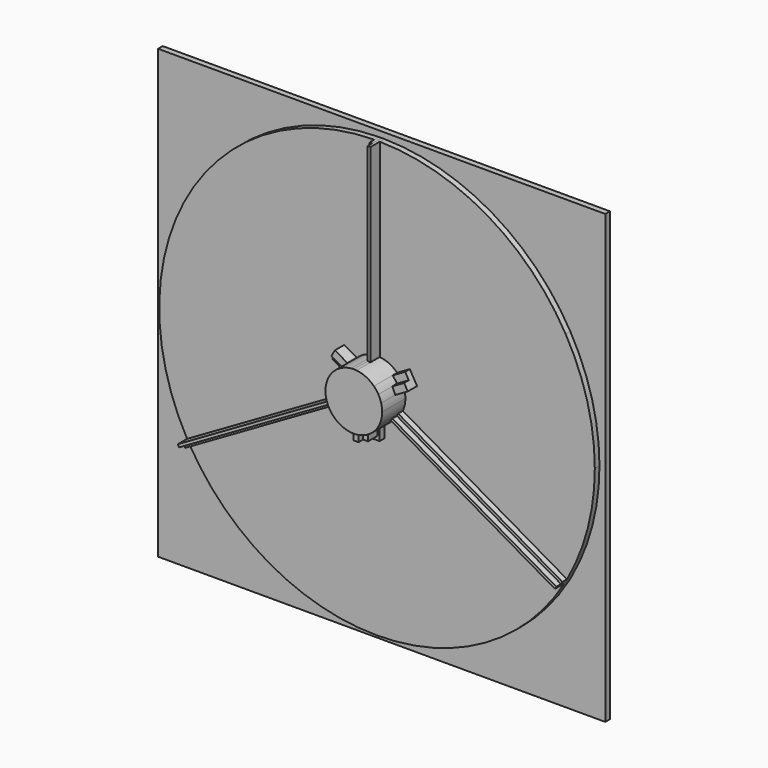
from build123d import *

# Parameters (mm, degrees)
F1_DEPTH = 2.54
F2_DEPTH = 2.54
F3_DEPTH = 5.08
F4_DEPTH = 7.62
F5_DEPTH = 12.7
F6_DEPTH = 10.16
F7_DEPTH = 15.24


with BuildPart() as f1:
    # F0 (on Front) → F1 (new body)
    with BuildSketch(Plane.XZ):
        Polygon((97.79, 97.79), (0, 97.79), (-97.79, 97.79), (-97.79, -97.79), (0, -97.79), (97.79, -97.79), align=None)
        with BuildLine():
            ThreePointArc((1.190625, 95.242558303), (48.1396355971, 82.1896464561), (82.4889197105, 47.625))
            ThreePointArc((82.4889197105, 47.625), (92.004434954, 24.652514046), (95.25, 0))
            ThreePointArc((95.25, 0), (92.156719127, -24.0769935778), (83.0777875119, -46.5901676551))
            ThreePointArc((83.0777875119, -46.5901676551), (82.7849705841, -47.1085039605), (82.4889197105, -47.625))
            ThreePointArc((82.4889197105, -47.625), (82.1896464561, -48.1396355971), (81.8871625119, -48.6523906479))
            ThreePointArc((81.8871625119, -48.6523906479), (47.1085039605, -82.7849705841), (0, -95.25))
            ThreePointArc((0, -95.25), (-47.1085039605, -82.7849705841), (-81.8871625119, -48.6523906479))
            ThreePointArc((-81.8871625119, -48.6523906479), (-82.1896464561, -48.1396355971), (-82.4889197105, -47.625))
            ThreePointArc((-82.4889197105, -47.625), (-82.7849705841, -47.1085039605), (-83.0777875119, -46.5901676551))
            ThreePointArc((-83.0777875119, -46.5901676551), (-95.2481395576, 0.595324128), (-82.4889197105, 47.625))
            ThreePointArc((-82.4889197105, 47.625), (-48.1396355971, 82.1896464561), (-1.190625, 95.242558303))
            ThreePointArc((-1.190625, 95.242558303), (-0.595324128, 95.2481395576), (0, 95.25))
            ThreePointArc((0, 95.25), (0.595324128, 95.2481395576), (1.190625, 95.242558303))
        make_face(mode=Mode.SUBTRACT)
        with BuildLine():
            Line((14.3383607654, 11.944430657), (15.9258607654, 9.1948))
            Line((15.9258607654, 9.1948), (82.4889197105, 47.625))
            ThreePointArc((82.4889197105, 47.625), (48.1396355971, 82.1896464561), (1.190625, 95.242558303))
            Line((1.190625, 95.242558303), (1.190625, 12.3378845492))
            ThreePointArc((1.190625, 12.3378845492), (5.3040767235, 11.2030242859), (8.7889285055, 8.7404644479))
            Line((8.7889285055, 8.7404644479), (9.147058085, 8.947230657))
            Line((9.147058085, 8.947230657), (14.3383607654, 11.944430657))
        make_face()
        with BuildLine():
            ThreePointArc((-8.7889285055, 8.7404644479), (-5.3040767235, 11.2030242859), (-1.190625, 12.3378845492))
            Line((-1.190625, 12.3378845492), (-1.190625, 95.242558303))
            ThreePointArc((-1.190625, 95.242558303), (-48.1396355971, 82.1896464561), (-82.4889197105, 47.625))
            Line((-82.4889197105, 47.625), (-15.9258607654, 9.1948))
            Line((-15.9258607654, 9.1948), (-14.3383607654, 11.944430657))
            Line((-14.3383607654, 11.944430657), (-9.147058085, 8.947230657))
            Line((-9.147058085, 8.947230657), (-8.7889285055, 8.7404644479))
        make_face()
        with BuildLine():
            Line((81.8871625119, -48.6523906479), (10.0896089486, -7.200053771))
            ThreePointArc((10.0896089486, -7.200053771), (7.0500652691, -10.1949773291), (3.175, -11.9816675818))
            Line((3.175, -11.9816675818), (3.175, -12.3952))
            Line((3.175, -12.3952), (3.175, -18.3896))
            Line((3.175, -18.3896), (0, -18.3896))
            Line((0, -18.3896), (0, -95.25))
            ThreePointArc((0, -95.25), (47.1085039605, -82.7849705841), (81.8871625119, -48.6523906479))
        make_face()
        with BuildLine():
            Line((-17.5133607654, 6.445169343), (-15.9258607654, 9.1948))
            Line((-15.9258607654, 9.1948), (-82.4889197105, 47.625))
            ThreePointArc((-82.4889197105, 47.625), (-95.2481395576, 0.595324128), (-83.0777875119, -46.5901676551))
            Line((-83.0777875119, -46.5901676551), (-11.2802339486, -5.1378307782))
            ThreePointArc((-11.2802339486, -5.1378307782), (-12.3541419926, -1.0080469568), (-11.9639285055, 3.2412031339))
            Line((-11.9639285055, 3.2412031339), (-12.322058085, 3.447969343))
            Line((-12.322058085, 3.447969343), (-17.5133607654, 6.445169343))
        make_face()
        with BuildLine():
            Line((82.4889197105, 47.625), (15.9258607654, 9.1948))
            Line((15.9258607654, 9.1948), (17.5133607654, 6.445169343))
            Line((17.5133607654, 6.445169343), (12.322058085, 3.447969343))
            Line((12.322058085, 3.447969343), (11.9639285055, 3.2412031339))
            ThreePointArc((11.9639285055, 3.2412031339), (12.2869090835, 1.6348847709), (12.3952, 0))
            ThreePointArc((12.3952, 0), (12.1132518111, -2.6287094933), (11.2802339486, -5.1378307782))
            Line((11.2802339486, -5.1378307782), (83.0777875119, -46.5901676551))
            ThreePointArc((83.0777875119, -46.5901676551), (92.156719127, -24.0769935778), (95.25, 0))
            ThreePointArc((95.25, 0), (92.004434954, 24.652514046), (82.4889197105, 47.625))
        make_face()
        with BuildLine():
            ThreePointArc((-3.175, -11.9816675818), (-7.0500652691, -10.1949773291), (-10.0896089486, -7.200053771))
            Line((-10.0896089486, -7.200053771), (-81.8871625119, -48.6523906479))
            ThreePointArc((-81.8871625119, -48.6523906479), (-47.1085039605, -82.7849705841), (0, -95.25))
            Line((0, -95.25), (0, -18.3896))
            Line((0, -18.3896), (-3.175, -18.3896))
            Line((-3.175, -18.3896), (-3.175, -12.3952))
            Line((-3.175, -12.3952), (-3.175, -11.9816675818))
        make_face()
        with BuildLine():
            ThreePointArc((0, 12.3952), (0.5960018774, 12.3808628456), (1.190625, 12.3378845492))
            Line((1.190625, 12.3378845492), (1.190625, 95.242558303))
            ThreePointArc((1.190625, 95.242558303), (0.595324128, 95.2481395576), (0, 95.25))
            Line((0, 95.25), (0, 12.3952))
        make_face()
        with BuildLine():
            Line((82.4889197105, -47.625), (10.734558085, -6.1976))
            ThreePointArc((10.734558085, -6.1976), (10.4241408064, -6.7065841894), (10.0896089486, -7.200053771))
            Line((10.0896089486, -7.200053771), (81.8871625119, -48.6523906479))
            ThreePointArc((81.8871625119, -48.6523906479), (82.1896464561, -48.1396355971), (82.4889197105, -47.625))
        make_face()
        with BuildLine():
            ThreePointArc((-10.0896089486, -7.200053771), (-10.4241408064, -6.7065841894), (-10.734558085, -6.1976))
            Line((-10.734558085, -6.1976), (-82.4889197105, -47.625))
            ThreePointArc((-82.4889197105, -47.625), (-82.1896464561, -48.1396355971), (-81.8871625119, -48.6523906479))
            Line((-81.8871625119, -48.6523906479), (-10.0896089486, -7.200053771))
        make_face()
        with BuildLine():
            ThreePointArc((-1.190625, 12.3378845492), (-0.5960018774, 12.3808628456), (0, 12.3952))
            Line((0, 12.3952), (0, 95.25))
            ThreePointArc((0, 95.25), (-0.595324128, 95.2481395576), (-1.190625, 95.242558303))
            Line((-1.190625, 95.242558303), (-1.190625, 12.3378845492))
        make_face()
        with BuildLine():
            ThreePointArc((-10.734558085, -6.1976), (-11.0201426838, -5.6742786563), (-11.2802339486, -5.1378307782))
            Line((-11.2802339486, -5.1378307782), (-83.0777875119, -46.5901676551))
            ThreePointArc((-83.0777875119, -46.5901676551), (-82.7849705841, -47.1085039605), (-82.4889197105, -47.625))
            Line((-82.4889197105, -47.625), (-10.734558085, -6.1976))
        make_face()
        with BuildLine():
            Line((83.0777875119, -46.5901676551), (11.2802339486, -5.1378307782))
            ThreePointArc((11.2802339486, -5.1378307782), (11.0201426838, -5.6742786563), (10.734558085, -6.1976))
            Line((10.734558085, -6.1976), (82.4889197105, -47.625))
            ThreePointArc((82.4889197105, -47.625), (82.7849705841, -47.1085039605), (83.0777875119, -46.5901676551))
        make_face()
        with BuildLine():
            Line((1.190625, 12.3378845492), (1.190625, 4.3535818736))
            Line((1.190625, 4.3535818736), (8.7889285055, 8.7404644479))
            ThreePointArc((8.7889285055, 8.7404644479), (5.3040767235, 11.2030242859), (1.190625, 12.3378845492))
        make_face()
        with BuildLine():
            Line((-8.7889285055, 8.7404644479), (-1.190625, 4.3535818736))
            Line((-1.190625, 4.3535818736), (-1.190625, 12.3378845492))
            ThreePointArc((-1.190625, 12.3378845492), (-5.3040767235, 11.2030242859), (-8.7889285055, 8.7404644479))
        make_face()
        with BuildLine():
            Line((-3.175, -11.9816675818), (-3.175, -3.2079024332))
            Line((-3.175, -3.2079024332), (-10.0896089486, -7.200053771))
            ThreePointArc((-10.0896089486, -7.200053771), (-7.0500652691, -10.1949773291), (-3.175, -11.9816675818))
        make_face()
        with BuildLine():
            Line((10.0896089486, -7.200053771), (3.175, -3.2079024332))
            Line((3.175, -3.2079024332), (3.175, -11.9816675818))
            ThreePointArc((3.175, -11.9816675818), (7.0500652691, -10.1949773291), (10.0896089486, -7.200053771))
        make_face()
        with BuildLine():
            Line((-4.365625, -1.1456794404), (-11.9639285055, 3.2412031339))
            ThreePointArc((-11.9639285055, 3.2412031339), (-12.3541419926, -1.0080469568), (-11.2802339486, -5.1378307782))
            Line((-11.2802339486, -5.1378307782), (-4.365625, -1.1456794404))
        make_face()
        with BuildLine():
            ThreePointArc((12.3952, 0), (12.2869090835, 1.6348847709), (11.9639285055, 3.2412031339))
            Line((11.9639285055, 3.2412031339), (4.365625, -1.1456794404))
            Line((4.365625, -1.1456794404), (11.2802339486, -5.1378307782))
            ThreePointArc((11.2802339486, -5.1378307782), (12.1132518111, -2.6287094933), (12.3952, 0))
        make_face()
        with BuildLine():
            Line((-10.734558085, 6.1976), (-1.190625, 0.6874076643))
            Line((-1.190625, 0.6874076643), (-1.190625, 2.9787665451))
            Line((-1.190625, 2.9787665451), (-1.190625, 4.3535818736))
            Line((-1.190625, 4.3535818736), (-8.7889285055, 8.7404644479))
            ThreePointArc((-8.7889285055, 8.7404644479), (-9.8441948407, 7.5321186248), (-10.734558085, 6.1976))
        make_face()
        with BuildLine():
            Line((1.190625, 2.9787665451), (1.190625, 0.6874076643))
            Line((1.190625, 0.6874076643), (10.734558085, 6.1976))
            ThreePointArc((10.734558085, 6.1976), (9.8441948407, 7.5321186248), (8.7889285055, 8.7404644479))
            Line((8.7889285055, 8.7404644479), (1.190625, 4.3535818736))
            Line((1.190625, 4.3535818736), (1.190625, 2.9787665451))
        make_face()
        with BuildLine():
            Line((-2.8194, -0.2529660204), (-1.190625, 0.6874076643))
            Line((-1.190625, 0.6874076643), (-10.734558085, 6.1976))
            ThreePointArc((-10.734558085, 6.1976), (-11.4451034937, 4.7592634995), (-11.9639285055, 3.2412031339))
            Line((-11.9639285055, 3.2412031339), (-4.365625, -1.1456794404))
            Line((-4.365625, -1.1456794404), (-3.175, -0.4582717762))
            Line((-3.175, -0.4582717762), (-2.8194, -0.2529660204))
        make_face()
        with BuildLine():
            Line((10.734558085, 6.1976), (1.190625, 0.6874076643))
            Line((1.190625, 0.6874076643), (2.8194, -0.2529660204))
            Line((2.8194, -0.2529660204), (2.8194, 0))
            Line((2.8194, 0), (3.175, 0))
            Line((3.175, 0), (3.175, -0.4582717762))
            Line((3.175, -0.4582717762), (4.365625, -1.1456794404))
            Line((4.365625, -1.1456794404), (11.9639285055, 3.2412031339))
            ThreePointArc((11.9639285055, 3.2412031339), (11.4451034937, 4.7592634995), (10.734558085, 6.1976))
        make_face()
        with BuildLine():
            Line((0, -12.3952), (0, -1.3748153285))
            Line((0, -1.3748153285), (-1.984375, -2.5204947689))
            Line((-1.984375, -2.5204947689), (-2.1717, -2.6286469081))
            Line((-2.1717, -2.6286469081), (-2.1717, -12.2034709059))
            ThreePointArc((-2.1717, -12.2034709059), (-1.0900734993, -12.3471746892), (0, -12.3952))
        make_face()
        with BuildLine():
            Line((1.984375, -2.5204947689), (0, -1.3748153285))
            Line((0, -1.3748153285), (0, -12.3952))
            ThreePointArc((0, -12.3952), (1.0900734993, -12.3471746892), (2.1717, -12.2034709059))
            Line((2.1717, -12.2034709059), (2.1717, -2.6286469081))
            Line((2.1717, -2.6286469081), (1.984375, -2.5204947689))
        make_face()
        with BuildLine():
            ThreePointArc((8.7889285055, 8.7404644479), (9.8441948407, 7.5321186248), (10.734558085, 6.1976))
            Line((10.734558085, 6.1976), (15.9258607654, 9.1948))
            Line((15.9258607654, 9.1948), (14.3383607654, 11.944430657))
            Line((14.3383607654, 11.944430657), (9.147058085, 8.947230657))
            Line((9.147058085, 8.947230657), (8.7889285055, 8.7404644479))
        make_face()
        with BuildLine():
            Line((-15.9258607654, 9.1948), (-10.734558085, 6.1976))
            ThreePointArc((-10.734558085, 6.1976), (-9.8441948407, 7.5321186248), (-8.7889285055, 8.7404644479))
            Line((-8.7889285055, 8.7404644479), (-9.147058085, 8.947230657))
            Line((-9.147058085, 8.947230657), (-14.3383607654, 11.944430657))
            Line((-14.3383607654, 11.944430657), (-15.9258607654, 9.1948))
        make_face()
        with BuildLine():
            ThreePointArc((-11.9639285055, 3.2412031339), (-11.4451034937, 4.7592634995), (-10.734558085, 6.1976))
            Line((-10.734558085, 6.1976), (-15.9258607654, 9.1948))
            Line((-15.9258607654, 9.1948), (-17.5133607654, 6.445169343))
            Line((-17.5133607654, 6.445169343), (-12.322058085, 3.447969343))
            Line((-12.322058085, 3.447969343), (-11.9639285055, 3.2412031339))
        make_face()
        with BuildLine():
            Line((15.9258607654, 9.1948), (10.734558085, 6.1976))
            ThreePointArc((10.734558085, 6.1976), (11.4451034937, 4.7592634995), (11.9639285055, 3.2412031339))
            Line((11.9639285055, 3.2412031339), (12.322058085, 3.447969343))
            Line((12.322058085, 3.447969343), (17.5133607654, 6.445169343))
            Line((17.5133607654, 6.445169343), (15.9258607654, 9.1948))
        make_face()
        with BuildLine():
            Line((0, 3.6661742094), (1.190625, 4.3535818736))
            Line((1.190625, 4.3535818736), (1.190625, 12.3378845492))
            ThreePointArc((1.190625, 12.3378845492), (0.5960018774, 12.3808628456), (0, 12.3952))
            Line((0, 12.3952), (0, 3.6661742094))
        make_face()
        with BuildLine():
            Line((-1.190625, 4.3535818736), (0, 3.6661742094))
            Line((0, 3.6661742094), (0, 12.3952))
            ThreePointArc((0, 12.3952), (-0.5960018774, 12.3808628456), (-1.190625, 12.3378845492))
            Line((-1.190625, 12.3378845492), (-1.190625, 4.3535818736))
        make_face()
        with BuildLine():
            Line((11.2802339486, -5.1378307782), (4.365625, -1.1456794404))
            Line((4.365625, -1.1456794404), (3.175, -1.8330871047))
            Line((3.175, -1.8330871047), (10.734558085, -6.1976))
            ThreePointArc((10.734558085, -6.1976), (11.0201426838, -5.6742786563), (11.2802339486, -5.1378307782))
        make_face()
        with BuildLine():
            Line((10.734558085, -6.1976), (3.175, -1.8330871047))
            Line((3.175, -1.8330871047), (3.175, -3.2079024332))
            Line((3.175, -3.2079024332), (10.0896089486, -7.200053771))
            ThreePointArc((10.0896089486, -7.200053771), (10.4241408064, -6.7065841894), (10.734558085, -6.1976))
        make_face()
        with BuildLine():
            Line((-10.734558085, -6.1976), (-3.175, -1.8330871047))
            Line((-3.175, -1.8330871047), (-4.365625, -1.1456794404))
            Line((-4.365625, -1.1456794404), (-11.2802339486, -5.1378307782))
            ThreePointArc((-11.2802339486, -5.1378307782), (-11.0201426838, -5.6742786563), (-10.734558085, -6.1976))
        make_face()
        with BuildLine():
            Line((-3.175, -3.2079024332), (-3.175, -1.8330871047))
            Line((-3.175, -1.8330871047), (-10.734558085, -6.1976))
            ThreePointArc((-10.734558085, -6.1976), (-10.4241408064, -6.7065841894), (-10.0896089486, -7.200053771))
            Line((-10.0896089486, -7.200053771), (-3.175, -3.2079024332))
        make_face()
        with BuildLine():
            ThreePointArc((2.1717, -12.2034709059), (1.0900734993, -12.3471746892), (0, -12.3952))
            Line((0, -12.3952), (0, -16.7386))
            Line((0, -16.7386), (2.1717, -16.7386))
            Line((2.1717, -16.7386), (2.1717, -14.5669))
            Line((2.1717, -14.5669), (2.1717, -12.2034709059))
        make_face()
        with BuildLine():
            Line((0, -16.7386), (0, -12.3952))
            ThreePointArc((0, -12.3952), (-1.0900734993, -12.3471746892), (-2.1717, -12.2034709059))
            Line((-2.1717, -12.2034709059), (-2.1717, -14.5669))
            Line((-2.1717, -14.5669), (-2.1717, -16.7386))
            Line((-2.1717, -16.7386), (0, -16.7386))
        make_face()
        with BuildLine():
            Line((2.1717, -16.7386), (0, -16.7386))
            Line((0, -16.7386), (0, -18.034))
            Line((0, -18.034), (2.8194, -18.034))
            Line((2.8194, -18.034), (2.8194, -15.2146))
            Line((2.8194, -15.2146), (2.8194, -12.0702927338))
            ThreePointArc((2.8194, -12.0702927338), (2.4964382446, -12.1412017169), (2.1717, -12.2034709059))
            Line((2.1717, -12.2034709059), (2.1717, -14.5669))
            Line((2.1717, -14.5669), (2.1717, -16.7386))
        make_face()
        with BuildLine():
            Line((0, -18.034), (0, -16.7386))
            Line((0, -16.7386), (-2.1717, -16.7386))
            Line((-2.1717, -16.7386), (-2.1717, -14.5669))
            Line((-2.1717, -14.5669), (-2.1717, -12.2034709059))
            ThreePointArc((-2.1717, -12.2034709059), (-2.4964382446, -12.1412017169), (-2.8194, -12.0702927338))
            Line((-2.8194, -12.0702927338), (-2.8194, -15.2146))
            Line((-2.8194, -15.2146), (-2.8194, -18.034))
            Line((-2.8194, -18.034), (0, -18.034))
        make_face()
        with BuildLine():
            Line((-2.1717, -12.2034709059), (-2.1717, -2.6286469081))
            Line((-2.1717, -2.6286469081), (-2.8194, -3.0025966775))
            Line((-2.8194, -3.0025966775), (-2.8194, -12.0702927338))
            ThreePointArc((-2.8194, -12.0702927338), (-2.4964382446, -12.1412017169), (-2.1717, -12.2034709059))
        make_face()
        with BuildLine():
            Line((2.8194, -3.0025966775), (2.1717, -2.6286469081))
            Line((2.1717, -2.6286469081), (2.1717, -12.2034709059))
            ThreePointArc((2.1717, -12.2034709059), (2.4964382446, -12.1412017169), (2.8194, -12.0702927338))
            Line((2.8194, -12.0702927338), (2.8194, -3.0025966775))
        make_face()
        Polygon((0, 0), (1.190625, 0.6874076643), (1.190625, 2.9787665451), (0, 3.6661742094), align=None)
        Polygon((-1.190625, 0.6874076643), (0, 0), (0, 3.6661742094), (-1.190625, 2.9787665451), align=None)
        with BuildLine():
            Line((2.8194, -18.034), (0, -18.034))
            Line((0, -18.034), (0, -18.3896))
            Line((0, -18.3896), (3.175, -18.3896))
            Line((3.175, -18.3896), (3.175, -12.3952))
            Line((3.175, -12.3952), (3.175, -11.9816675818))
            ThreePointArc((3.175, -11.9816675818), (2.9975275552, -12.027294442), (2.8194, -12.0702927338))
            Line((2.8194, -12.0702927338), (2.8194, -15.2146))
            Line((2.8194, -15.2146), (2.8194, -18.034))
        make_face()
        with BuildLine():
            Line((0, -18.3896), (0, -18.034))
            Line((0, -18.034), (-2.8194, -18.034))
            Line((-2.8194, -18.034), (-2.8194, -15.2146))
            Line((-2.8194, -15.2146), (-2.8194, -12.0702927338))
            ThreePointArc((-2.8194, -12.0702927338), (-2.9975275552, -12.027294442), (-3.175, -11.9816675818))
            Line((-3.175, -11.9816675818), (-3.175, -12.3952))
            Line((-3.175, -12.3952), (-3.175, -18.3896))
            Line((-3.175, -18.3896), (0, -18.3896))
        make_face()
        with BuildLine():
            Line((3.175, -11.9816675818), (3.175, -3.2079024332))
            Line((3.175, -3.2079024332), (2.8194, -3.0025966775))
            Line((2.8194, -3.0025966775), (2.8194, -12.0702927338))
            ThreePointArc((2.8194, -12.0702927338), (2.9975275552, -12.027294442), (3.175, -11.9816675818))
        make_face()
        with BuildLine():
            Line((-2.8194, -3.0025966775), (-3.175, -3.2079024332))
            Line((-3.175, -3.2079024332), (-3.175, -11.9816675818))
            ThreePointArc((-3.175, -11.9816675818), (-2.9975275552, -12.027294442), (-2.8194, -12.0702927338))
            Line((-2.8194, -12.0702927338), (-2.8194, -3.0025966775))
        make_face()
        Polygon((2.8194, -0.2529660204), (1.190625, 0.6874076643), (0, 0), (2.1717, -1.2538315796), (2.8194, -1.627781349), align=None)
        Polygon((-2.1717, -1.2538315796), (0, 0), (-1.190625, 0.6874076643), (-2.8194, -0.2529660204), (-2.8194, -1.627781349), align=None)
        Polygon((0, -1.3748153285), (0, 0), (-2.1717, -1.2538315796), (-2.1717, -2.4123426298), (-1.984375, -2.5204947689), align=None)
        Polygon((2.1717, -1.2538315796), (0, 0), (0, -1.3748153285), (1.984375, -2.5204947689), (2.1717, -2.4123426298), align=None)
        Polygon((0, 3.6661742094), (1.190625, 2.9787665451), (1.190625, 4.3535818736), align=None)
        Polygon((-1.190625, 2.9787665451), (0, 3.6661742094), (-1.190625, 4.3535818736), align=None)
        Polygon((-3.175, -1.8330871047), (-3.175, -0.4582717762), (-4.365625, -1.1456794404), align=None)
        Polygon((4.365625, -1.1456794404), (3.175, -0.4582717762), (3.175, -1.8330871047), align=None)
        Polygon((2.8194, -1.627781349), (2.1717, -1.2538315796), (2.1717, -2.4123426298), (2.8194, -2.0383928604), align=None)
        Polygon((-2.1717, -2.4123426298), (-2.1717, -1.2538315796), (-2.8194, -1.627781349), (-2.8194, -2.0383928604), align=None)
        Polygon((3.175, -0.4582717762), (2.8194, -0.2529660204), (2.8194, -1.627781349), (3.175, -1.8330871047), align=None)
        Polygon((-2.8194, -1.627781349), (-2.8194, -0.2529660204), (-3.175, -0.4582717762), (-3.175, -1.8330871047), align=None)
        Polygon((3.175, -3.2079024332), (3.175, -1.8330871047), (2.8194, -2.0383928604), (2.8194, -3.0025966775), align=None)
        Polygon((-2.8194, -2.0383928604), (-3.175, -1.8330871047), (-3.175, -3.2079024332), (-2.8194, -3.0025966775), align=None)
        Polygon((2.8194, -2.0383928604), (2.1717, -2.4123426298), (2.1717, -2.6286469081), (2.8194, -3.0025966775), align=None)
        Polygon((-2.1717, -2.6286469081), (-2.1717, -2.4123426298), (-2.8194, -2.0383928604), (-2.8194, -3.0025966775), align=None)
        Polygon((2.8194, 0), (2.8194, -0.2529660204), (3.175, -0.4582717762), (3.175, 0), align=None)
        Polygon((-2.8194, -2.0383928604), (-2.8194, -1.627781349), (-3.175, -1.8330871047), align=None)
        Polygon((3.175, -1.8330871047), (2.8194, -1.627781349), (2.8194, -2.0383928604), align=None)
        Polygon((-1.984375, -2.5204947689), (-2.1717, -2.4123426298), (-2.1717, -2.6286469081), align=None)
        Polygon((2.1717, -2.4123426298), (1.984375, -2.5204947689), (2.1717, -2.6286469081), align=None)
    extrude(amount=-F1_DEPTH)

    # F0 (on Front) → F2 (join)
    with BuildSketch(Plane.XZ):
        with BuildLine():
            ThreePointArc((-8.7889285055, 8.7404644479), (-5.3040767235, 11.2030242859), (-1.190625, 12.3378845492))
            Line((-1.190625, 12.3378845492), (-1.190625, 95.242558303))
            ThreePointArc((-1.190625, 95.242558303), (-48.1396355971, 82.1896464561), (-82.4889197105, 47.625))
            Line((-82.4889197105, 47.625), (-15.9258607654, 9.1948))
            Line((-15.9258607654, 9.1948), (-14.3383607654, 11.944430657))
            Line((-14.3383607654, 11.944430657), (-9.147058085, 8.947230657))
            Line((-9.147058085, 8.947230657), (-8.7889285055, 8.7404644479))
        make_face()
        with BuildLine():
            Line((-17.5133607654, 6.445169343), (-15.9258607654, 9.1948))
            Line((-15.9258607654, 9.1948), (-82.4889197105, 47.625))
            ThreePointArc((-82.4889197105, 47.625), (-95.2481395576, 0.595324128), (-83.0777875119, -46.5901676551))
            Line((-83.0777875119, -46.5901676551), (-11.2802339486, -5.1378307782))
            ThreePointArc((-11.2802339486, -5.1378307782), (-12.3541419926, -1.0080469568), (-11.9639285055, 3.2412031339))
            Line((-11.9639285055, 3.2412031339), (-12.322058085, 3.447969343))
            Line((-12.322058085, 3.447969343), (-17.5133607654, 6.445169343))
        make_face()
        with BuildLine():
            ThreePointArc((-3.175, -11.9816675818), (-7.0500652691, -10.1949773291), (-10.0896089486, -7.200053771))
            Line((-10.0896089486, -7.200053771), (-81.8871625119, -48.6523906479))
            ThreePointArc((-81.8871625119, -48.6523906479), (-47.1085039605, -82.7849705841), (0, -95.25))
            Line((0, -95.25), (0, -18.3896))
            Line((0, -18.3896), (-3.175, -18.3896))
            Line((-3.175, -18.3896), (-3.175, -12.3952))
            Line((-3.175, -12.3952), (-3.175, -11.9816675818))
        make_face()
        with BuildLine():
            Line((81.8871625119, -48.6523906479), (10.0896089486, -7.200053771))
            ThreePointArc((10.0896089486, -7.200053771), (7.0500652691, -10.1949773291), (3.175, -11.9816675818))
            Line((3.175, -11.9816675818), (3.175, -12.3952))
            Line((3.175, -12.3952), (3.175, -18.3896))
            Line((3.175, -18.3896), (0, -18.3896))
            Line((0, -18.3896), (0, -95.25))
            ThreePointArc((0, -95.25), (47.1085039605, -82.7849705841), (81.8871625119, -48.6523906479))
        make_face()
        with BuildLine():
            Line((82.4889197105, 47.625), (15.9258607654, 9.1948))
            Line((15.9258607654, 9.1948), (17.5133607654, 6.445169343))
            Line((17.5133607654, 6.445169343), (12.322058085, 3.447969343))
            Line((12.322058085, 3.447969343), (11.9639285055, 3.2412031339))
            ThreePointArc((11.9639285055, 3.2412031339), (12.2869090835, 1.6348847709), (12.3952, 0))
            ThreePointArc((12.3952, 0), (12.1132518111, -2.6287094933), (11.2802339486, -5.1378307782))
            Line((11.2802339486, -5.1378307782), (83.0777875119, -46.5901676551))
            ThreePointArc((83.0777875119, -46.5901676551), (92.156719127, -24.0769935778), (95.25, 0))
            ThreePointArc((95.25, 0), (92.004434954, 24.652514046), (82.4889197105, 47.625))
        make_face()
        with BuildLine():
            Line((14.3383607654, 11.944430657), (15.9258607654, 9.1948))
            Line((15.9258607654, 9.1948), (82.4889197105, 47.625))
            ThreePointArc((82.4889197105, 47.625), (48.1396355971, 82.1896464561), (1.190625, 95.242558303))
            Line((1.190625, 95.242558303), (1.190625, 12.3378845492))
            ThreePointArc((1.190625, 12.3378845492), (5.3040767235, 11.2030242859), (8.7889285055, 8.7404644479))
            Line((8.7889285055, 8.7404644479), (9.147058085, 8.947230657))
            Line((9.147058085, 8.947230657), (14.3383607654, 11.944430657))
        make_face()
    extrude(amount=F2_DEPTH)

    # F0 (on Front) → F3 (join)
    with BuildSketch(Plane.XZ):
        with BuildLine():
            ThreePointArc((-11.9639285055, 3.2412031339), (-11.4451034937, 4.7592634995), (-10.734558085, 6.1976))
            Line((-10.734558085, 6.1976), (-15.9258607654, 9.1948))
            Line((-15.9258607654, 9.1948), (-17.5133607654, 6.445169343))
            Line((-17.5133607654, 6.445169343), (-12.322058085, 3.447969343))
            Line((-12.322058085, 3.447969343), (-11.9639285055, 3.2412031339))
        make_face()
        with BuildLine():
            ThreePointArc((-10.0896089486, -7.200053771), (-10.4241408064, -6.7065841894), (-10.734558085, -6.1976))
            Line((-10.734558085, -6.1976), (-82.4889197105, -47.625))
            ThreePointArc((-82.4889197105, -47.625), (-82.1896464561, -48.1396355971), (-81.8871625119, -48.6523906479))
            Line((-81.8871625119, -48.6523906479), (-10.0896089486, -7.200053771))
        make_face()
        with BuildLine():
            Line((2.1717, -16.7386), (0, -16.7386))
            Line((0, -16.7386), (0, -18.034))
            Line((0, -18.034), (2.8194, -18.034))
            Line((2.8194, -18.034), (2.8194, -15.2146))
            Line((2.8194, -15.2146), (2.8194, -12.0702927338))
            ThreePointArc((2.8194, -12.0702927338), (2.4964382446, -12.1412017169), (2.1717, -12.2034709059))
            Line((2.1717, -12.2034709059), (2.1717, -14.5669))
            Line((2.1717, -14.5669), (2.1717, -16.7386))
        make_face()
        with BuildLine():
            Line((2.8194, -18.034), (0, -18.034))
            Line((0, -18.034), (0, -18.3896))
            Line((0, -18.3896), (3.175, -18.3896))
            Line((3.175, -18.3896), (3.175, -12.3952))
            Line((3.175, -12.3952), (3.175, -11.9816675818))
            ThreePointArc((3.175, -11.9816675818), (2.9975275552, -12.027294442), (2.8194, -12.0702927338))
            Line((2.8194, -12.0702927338), (2.8194, -15.2146))
            Line((2.8194, -15.2146), (2.8194, -18.034))
        make_face()
        with BuildLine():
            Line((83.0777875119, -46.5901676551), (11.2802339486, -5.1378307782))
            ThreePointArc((11.2802339486, -5.1378307782), (11.0201426838, -5.6742786563), (10.734558085, -6.1976))
            Line((10.734558085, -6.1976), (82.4889197105, -47.625))
            ThreePointArc((82.4889197105, -47.625), (82.7849705841, -47.1085039605), (83.0777875119, -46.5901676551))
        make_face()
        with BuildLine():
            ThreePointArc((8.7889285055, 8.7404644479), (9.8441948407, 7.5321186248), (10.734558085, 6.1976))
            Line((10.734558085, 6.1976), (15.9258607654, 9.1948))
            Line((15.9258607654, 9.1948), (14.3383607654, 11.944430657))
            Line((14.3383607654, 11.944430657), (9.147058085, 8.947230657))
            Line((9.147058085, 8.947230657), (8.7889285055, 8.7404644479))
        make_face()
        with BuildLine():
            ThreePointArc((-1.190625, 12.3378845492), (-0.5960018774, 12.3808628456), (0, 12.3952))
            Line((0, 12.3952), (0, 95.25))
            ThreePointArc((0, 95.25), (-0.595324128, 95.2481395576), (-1.190625, 95.242558303))
            Line((-1.190625, 95.242558303), (-1.190625, 12.3378845492))
        make_face()
    extrude(amount=F3_DEPTH)

    # F0 (on Front) → F4 (join)
    with BuildSketch(Plane.XZ):
        with BuildLine():
            Line((-15.9258607654, 9.1948), (-10.734558085, 6.1976))
            ThreePointArc((-10.734558085, 6.1976), (-9.8441948407, 7.5321186248), (-8.7889285055, 8.7404644479))
            Line((-8.7889285055, 8.7404644479), (-9.147058085, 8.947230657))
            Line((-9.147058085, 8.947230657), (-14.3383607654, 11.944430657))
            Line((-14.3383607654, 11.944430657), (-15.9258607654, 9.1948))
        make_face()
        with BuildLine():
            ThreePointArc((0, 12.3952), (0.5960018774, 12.3808628456), (1.190625, 12.3378845492))
            Line((1.190625, 12.3378845492), (1.190625, 95.242558303))
            ThreePointArc((1.190625, 95.242558303), (0.595324128, 95.2481395576), (0, 95.25))
            Line((0, 95.25), (0, 12.3952))
        make_face()
        with BuildLine():
            Line((15.9258607654, 9.1948), (10.734558085, 6.1976))
            ThreePointArc((10.734558085, 6.1976), (11.4451034937, 4.7592634995), (11.9639285055, 3.2412031339))
            Line((11.9639285055, 3.2412031339), (12.322058085, 3.447969343))
            Line((12.322058085, 3.447969343), (17.5133607654, 6.445169343))
            Line((17.5133607654, 6.445169343), (15.9258607654, 9.1948))
        make_face()
        with BuildLine():
            Line((82.4889197105, -47.625), (10.734558085, -6.1976))
            ThreePointArc((10.734558085, -6.1976), (10.4241408064, -6.7065841894), (10.0896089486, -7.200053771))
            Line((10.0896089486, -7.200053771), (81.8871625119, -48.6523906479))
            ThreePointArc((81.8871625119, -48.6523906479), (82.1896464561, -48.1396355971), (82.4889197105, -47.625))
        make_face()
        with BuildLine():
            ThreePointArc((-10.734558085, -6.1976), (-11.0201426838, -5.6742786563), (-11.2802339486, -5.1378307782))
            Line((-11.2802339486, -5.1378307782), (-83.0777875119, -46.5901676551))
            ThreePointArc((-83.0777875119, -46.5901676551), (-82.7849705841, -47.1085039605), (-82.4889197105, -47.625))
            Line((-82.4889197105, -47.625), (-10.734558085, -6.1976))
        make_face()
        with BuildLine():
            Line((0, -18.034), (0, -16.7386))
            Line((0, -16.7386), (-2.1717, -16.7386))
            Line((-2.1717, -16.7386), (-2.1717, -14.5669))
            Line((-2.1717, -14.5669), (-2.1717, -12.2034709059))
            ThreePointArc((-2.1717, -12.2034709059), (-2.4964382446, -12.1412017169), (-2.8194, -12.0702927338))
            Line((-2.8194, -12.0702927338), (-2.8194, -15.2146))
            Line((-2.8194, -15.2146), (-2.8194, -18.034))
            Line((-2.8194, -18.034), (0, -18.034))
        make_face()
        with BuildLine():
            Line((0, -18.3896), (0, -18.034))
            Line((0, -18.034), (-2.8194, -18.034))
            Line((-2.8194, -18.034), (-2.8194, -15.2146))
            Line((-2.8194, -15.2146), (-2.8194, -12.0702927338))
            ThreePointArc((-2.8194, -12.0702927338), (-2.9975275552, -12.027294442), (-3.175, -11.9816675818))
            Line((-3.175, -11.9816675818), (-3.175, -12.3952))
            Line((-3.175, -12.3952), (-3.175, -18.3896))
            Line((-3.175, -18.3896), (0, -18.3896))
        make_face()
    extrude(amount=F4_DEPTH)

    # F0 (on Front) → F5 (join)
    with BuildSketch(Plane.XZ):
        with BuildLine():
            Line((0, -16.7386), (0, -12.3952))
            ThreePointArc((0, -12.3952), (-1.0900734993, -12.3471746892), (-2.1717, -12.2034709059))
            Line((-2.1717, -12.2034709059), (-2.1717, -14.5669))
            Line((-2.1717, -14.5669), (-2.1717, -16.7386))
            Line((-2.1717, -16.7386), (0, -16.7386))
        make_face()
    extrude(amount=F5_DEPTH)

    # F0 (on Front) → F6 (join)
    with BuildSketch(Plane.XZ):
        with BuildLine():
            ThreePointArc((2.1717, -12.2034709059), (1.0900734993, -12.3471746892), (0, -12.3952))
            Line((0, -12.3952), (0, -16.7386))
            Line((0, -16.7386), (2.1717, -16.7386))
            Line((2.1717, -16.7386), (2.1717, -14.5669))
            Line((2.1717, -14.5669), (2.1717, -12.2034709059))
        make_face()
    extrude(amount=F6_DEPTH)

    # F0 (on Front) → F7 (join)
    with BuildSketch(Plane.XZ):
        with BuildLine():
            Line((-8.7889285055, 8.7404644479), (-1.190625, 4.3535818736))
            Line((-1.190625, 4.3535818736), (-1.190625, 12.3378845492))
            ThreePointArc((-1.190625, 12.3378845492), (-5.3040767235, 11.2030242859), (-8.7889285055, 8.7404644479))
        make_face()
        with BuildLine():
            Line((-10.734558085, 6.1976), (-1.190625, 0.6874076643))
            Line((-1.190625, 0.6874076643), (-1.190625, 2.9787665451))
            Line((-1.190625, 2.9787665451), (-1.190625, 4.3535818736))
            Line((-1.190625, 4.3535818736), (-8.7889285055, 8.7404644479))
            ThreePointArc((-8.7889285055, 8.7404644479), (-9.8441948407, 7.5321186248), (-10.734558085, 6.1976))
        make_face()
        with BuildLine():
            Line((-2.8194, -0.2529660204), (-1.190625, 0.6874076643))
            Line((-1.190625, 0.6874076643), (-10.734558085, 6.1976))
            ThreePointArc((-10.734558085, 6.1976), (-11.4451034937, 4.7592634995), (-11.9639285055, 3.2412031339))
            Line((-11.9639285055, 3.2412031339), (-4.365625, -1.1456794404))
            Line((-4.365625, -1.1456794404), (-3.175, -0.4582717762))
            Line((-3.175, -0.4582717762), (-2.8194, -0.2529660204))
        make_face()
        with BuildLine():
            Line((-4.365625, -1.1456794404), (-11.9639285055, 3.2412031339))
            ThreePointArc((-11.9639285055, 3.2412031339), (-12.3541419926, -1.0080469568), (-11.2802339486, -5.1378307782))
            Line((-11.2802339486, -5.1378307782), (-4.365625, -1.1456794404))
        make_face()
        with BuildLine():
            Line((-10.734558085, -6.1976), (-3.175, -1.8330871047))
            Line((-3.175, -1.8330871047), (-4.365625, -1.1456794404))
            Line((-4.365625, -1.1456794404), (-11.2802339486, -5.1378307782))
            ThreePointArc((-11.2802339486, -5.1378307782), (-11.0201426838, -5.6742786563), (-10.734558085, -6.1976))
        make_face()
        with BuildLine():
            Line((-3.175, -3.2079024332), (-3.175, -1.8330871047))
            Line((-3.175, -1.8330871047), (-10.734558085, -6.1976))
            ThreePointArc((-10.734558085, -6.1976), (-10.4241408064, -6.7065841894), (-10.0896089486, -7.200053771))
            Line((-10.0896089486, -7.200053771), (-3.175, -3.2079024332))
        make_face()
        with BuildLine():
            Line((-3.175, -11.9816675818), (-3.175, -3.2079024332))
            Line((-3.175, -3.2079024332), (-10.0896089486, -7.200053771))
            ThreePointArc((-10.0896089486, -7.200053771), (-7.0500652691, -10.1949773291), (-3.175, -11.9816675818))
        make_face()
        with BuildLine():
            Line((10.0896089486, -7.200053771), (3.175, -3.2079024332))
            Line((3.175, -3.2079024332), (3.175, -11.9816675818))
            ThreePointArc((3.175, -11.9816675818), (7.0500652691, -10.1949773291), (10.0896089486, -7.200053771))
        make_face()
        with BuildLine():
            ThreePointArc((12.3952, 0), (12.2869090835, 1.6348847709), (11.9639285055, 3.2412031339))
            Line((11.9639285055, 3.2412031339), (4.365625, -1.1456794404))
            Line((4.365625, -1.1456794404), (11.2802339486, -5.1378307782))
            ThreePointArc((11.2802339486, -5.1378307782), (12.1132518111, -2.6287094933), (12.3952, 0))
        make_face()
        with BuildLine():
            Line((10.734558085, 6.1976), (1.190625, 0.6874076643))
            Line((1.190625, 0.6874076643), (2.8194, -0.2529660204))
            Line((2.8194, -0.2529660204), (2.8194, 0))
            Line((2.8194, 0), (3.175, 0))
            Line((3.175, 0), (3.175, -0.4582717762))
            Line((3.175, -0.4582717762), (4.365625, -1.1456794404))
            Line((4.365625, -1.1456794404), (11.9639285055, 3.2412031339))
            ThreePointArc((11.9639285055, 3.2412031339), (11.4451034937, 4.7592634995), (10.734558085, 6.1976))
        make_face()
        with BuildLine():
            Line((1.190625, 2.9787665451), (1.190625, 0.6874076643))
            Line((1.190625, 0.6874076643), (10.734558085, 6.1976))
            ThreePointArc((10.734558085, 6.1976), (9.8441948407, 7.5321186248), (8.7889285055, 8.7404644479))
            Line((8.7889285055, 8.7404644479), (1.190625, 4.3535818736))
            Line((1.190625, 4.3535818736), (1.190625, 2.9787665451))
        make_face()
        with BuildLine():
            Line((1.190625, 12.3378845492), (1.190625, 4.3535818736))
            Line((1.190625, 4.3535818736), (8.7889285055, 8.7404644479))
            ThreePointArc((8.7889285055, 8.7404644479), (5.3040767235, 11.2030242859), (1.190625, 12.3378845492))
        make_face()
        with BuildLine():
            Line((0, 3.6661742094), (1.190625, 4.3535818736))
            Line((1.190625, 4.3535818736), (1.190625, 12.3378845492))
            ThreePointArc((1.190625, 12.3378845492), (0.5960018774, 12.3808628456), (0, 12.3952))
            Line((0, 12.3952), (0, 3.6661742094))
        make_face()
        with BuildLine():
            Line((-1.190625, 4.3535818736), (0, 3.6661742094))
            Line((0, 3.6661742094), (0, 12.3952))
            ThreePointArc((0, 12.3952), (-0.5960018774, 12.3808628456), (-1.190625, 12.3378845492))
            Line((-1.190625, 12.3378845492), (-1.190625, 4.3535818736))
        make_face()
        Polygon((-1.190625, 0.6874076643), (0, 0), (0, 3.6661742094), (-1.190625, 2.9787665451), align=None)
        Polygon((0, 0), (1.190625, 0.6874076643), (1.190625, 2.9787665451), (0, 3.6661742094), align=None)
        Polygon((0, 3.6661742094), (1.190625, 2.9787665451), (1.190625, 4.3535818736), align=None)
        Polygon((-1.190625, 2.9787665451), (0, 3.6661742094), (-1.190625, 4.3535818736), align=None)
        Polygon((-3.175, -1.8330871047), (-3.175, -0.4582717762), (-4.365625, -1.1456794404), align=None)
        with BuildLine():
            Line((11.2802339486, -5.1378307782), (4.365625, -1.1456794404))
            Line((4.365625, -1.1456794404), (3.175, -1.8330871047))
            Line((3.175, -1.8330871047), (10.734558085, -6.1976))
            ThreePointArc((10.734558085, -6.1976), (11.0201426838, -5.6742786563), (11.2802339486, -5.1378307782))
        make_face()
        with BuildLine():
            Line((10.734558085, -6.1976), (3.175, -1.8330871047))
            Line((3.175, -1.8330871047), (3.175, -3.2079024332))
            Line((3.175, -3.2079024332), (10.0896089486, -7.200053771))
            ThreePointArc((10.0896089486, -7.200053771), (10.4241408064, -6.7065841894), (10.734558085, -6.1976))
        make_face()
        Polygon((4.365625, -1.1456794404), (3.175, -0.4582717762), (3.175, -1.8330871047), align=None)
        with BuildLine():
            Line((3.175, -11.9816675818), (3.175, -3.2079024332))
            Line((3.175, -3.2079024332), (2.8194, -3.0025966775))
            Line((2.8194, -3.0025966775), (2.8194, -12.0702927338))
            ThreePointArc((2.8194, -12.0702927338), (2.9975275552, -12.027294442), (3.175, -11.9816675818))
        make_face()
        with BuildLine():
            Line((2.8194, -3.0025966775), (2.1717, -2.6286469081))
            Line((2.1717, -2.6286469081), (2.1717, -12.2034709059))
            ThreePointArc((2.1717, -12.2034709059), (2.4964382446, -12.1412017169), (2.8194, -12.0702927338))
            Line((2.8194, -12.0702927338), (2.8194, -3.0025966775))
        make_face()
        with BuildLine():
            Line((1.984375, -2.5204947689), (0, -1.3748153285))
            Line((0, -1.3748153285), (0, -12.3952))
            ThreePointArc((0, -12.3952), (1.0900734993, -12.3471746892), (2.1717, -12.2034709059))
            Line((2.1717, -12.2034709059), (2.1717, -2.6286469081))
            Line((2.1717, -2.6286469081), (1.984375, -2.5204947689))
        make_face()
        with BuildLine():
            Line((0, -12.3952), (0, -1.3748153285))
            Line((0, -1.3748153285), (-1.984375, -2.5204947689))
            Line((-1.984375, -2.5204947689), (-2.1717, -2.6286469081))
            Line((-2.1717, -2.6286469081), (-2.1717, -12.2034709059))
            ThreePointArc((-2.1717, -12.2034709059), (-1.0900734993, -12.3471746892), (0, -12.3952))
        make_face()
        with BuildLine():
            Line((-2.1717, -12.2034709059), (-2.1717, -2.6286469081))
            Line((-2.1717, -2.6286469081), (-2.8194, -3.0025966775))
            Line((-2.8194, -3.0025966775), (-2.8194, -12.0702927338))
            ThreePointArc((-2.8194, -12.0702927338), (-2.4964382446, -12.1412017169), (-2.1717, -12.2034709059))
        make_face()
        with BuildLine():
            Line((-2.8194, -3.0025966775), (-3.175, -3.2079024332))
            Line((-3.175, -3.2079024332), (-3.175, -11.9816675818))
            ThreePointArc((-3.175, -11.9816675818), (-2.9975275552, -12.027294442), (-2.8194, -12.0702927338))
            Line((-2.8194, -12.0702927338), (-2.8194, -3.0025966775))
        make_face()
        Polygon((0, -1.3748153285), (0, 0), (-2.1717, -1.2538315796), (-2.1717, -2.4123426298), (-1.984375, -2.5204947689), align=None)
        Polygon((-2.1717, -2.4123426298), (-2.1717, -1.2538315796), (-2.8194, -1.627781349), (-2.8194, -2.0383928604), align=None)
        Polygon((-2.1717, -2.6286469081), (-2.1717, -2.4123426298), (-2.8194, -2.0383928604), (-2.8194, -3.0025966775), align=None)
        Polygon((-2.8194, -2.0383928604), (-3.175, -1.8330871047), (-3.175, -3.2079024332), (-2.8194, -3.0025966775), align=None)
        Polygon((-2.8194, -1.627781349), (-2.8194, -0.2529660204), (-3.175, -0.4582717762), (-3.175, -1.8330871047), align=None)
        Polygon((-2.1717, -1.2538315796), (0, 0), (-1.190625, 0.6874076643), (-2.8194, -0.2529660204), (-2.8194, -1.627781349), align=None)
        Polygon((-2.1717, -1.2538315796), (0, 0), (-1.190625, 0.6874076643), (-2.8194, -0.2529660204), (-2.8194, -1.627781349), align=None)
        Polygon((-2.8194, -2.0383928604), (-2.8194, -1.627781349), (-3.175, -1.8330871047), align=None)
        Polygon((-1.984375, -2.5204947689), (-2.1717, -2.4123426298), (-2.1717, -2.6286469081), align=None)
        Polygon((2.1717, -1.2538315796), (0, 0), (0, -1.3748153285), (1.984375, -2.5204947689), (2.1717, -2.4123426298), align=None)
        Polygon((2.8194, -0.2529660204), (1.190625, 0.6874076643), (0, 0), (2.1717, -1.2538315796), (2.8194, -1.627781349), align=None)
        Polygon((3.175, -0.4582717762), (2.8194, -0.2529660204), (2.8194, -1.627781349), (3.175, -1.8330871047), align=None)
        Polygon((2.8194, 0), (2.8194, -0.2529660204), (3.175, -0.4582717762), (3.175, 0), align=None)
        Polygon((3.175, -3.2079024332), (3.175, -1.8330871047), (2.8194, -2.0383928604), (2.8194, -3.0025966775), align=None)
        Polygon((3.175, -1.8330871047), (2.8194, -1.627781349), (2.8194, -2.0383928604), align=None)
        Polygon((2.8194, -1.627781349), (2.1717, -1.2538315796), (2.1717, -2.4123426298), (2.8194, -2.0383928604), align=None)
        Polygon((2.8194, -2.0383928604), (2.1717, -2.4123426298), (2.1717, -2.6286469081), (2.8194, -3.0025966775), align=None)
        Polygon((2.1717, -2.4123426298), (1.984375, -2.5204947689), (2.1717, -2.6286469081), align=None)
    extrude(amount=F7_DEPTH)


solid = f1.part
